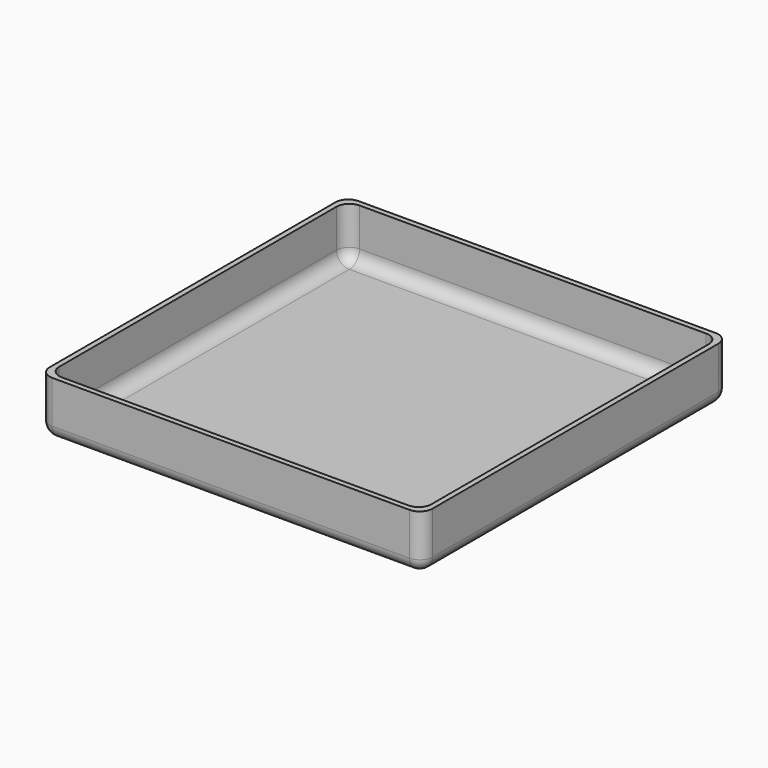
from build123d import *

# Parameters (mm, degrees)
F0_W     = 90
F0_H     = 90
F1_DEPTH = 13
F2_W     = 87.5
F2_H     = 87.5
F3_DEPTH = 12
F4_R     = 3


with BuildPart() as f1:
    # F0 (on Top) → F1 (new body)
    with BuildSketch(Plane.XY):
        Rectangle(F0_W, F0_H)
    extrude(amount=F1_DEPTH)

    # F2 (on face) → F3 (cut)
    with BuildSketch(Plane.XY.offset(13)):
        Rectangle(F2_W, F2_H)
    extrude(amount=-F3_DEPTH, mode=Mode.SUBTRACT)

    # F4
    f4_edges = [f1.edges().sort_by_distance(p)[0] for p in [
        (45, 0, 0),
        (0, 45, 0),
        (-45, 0, 0),
        (0, -45, 0),
        (45, -45, 6.5),
        (45, 45, 6.5),
        (-45, -45, 6.5),
        (-45, 45, 6.5),
        (-43.75, 0, 1),
        (0, -43.75, 1),
        (43.75, 0, 1),
        (0, 43.75, 1),
        (-43.75, 43.75, 7),
        (43.75, 43.75, 7),
        (43.75, -43.75, 7),
        (-43.75, -43.75, 7),
    ]]
    fillet(f4_edges, radius=F4_R)


solid = f1.part
